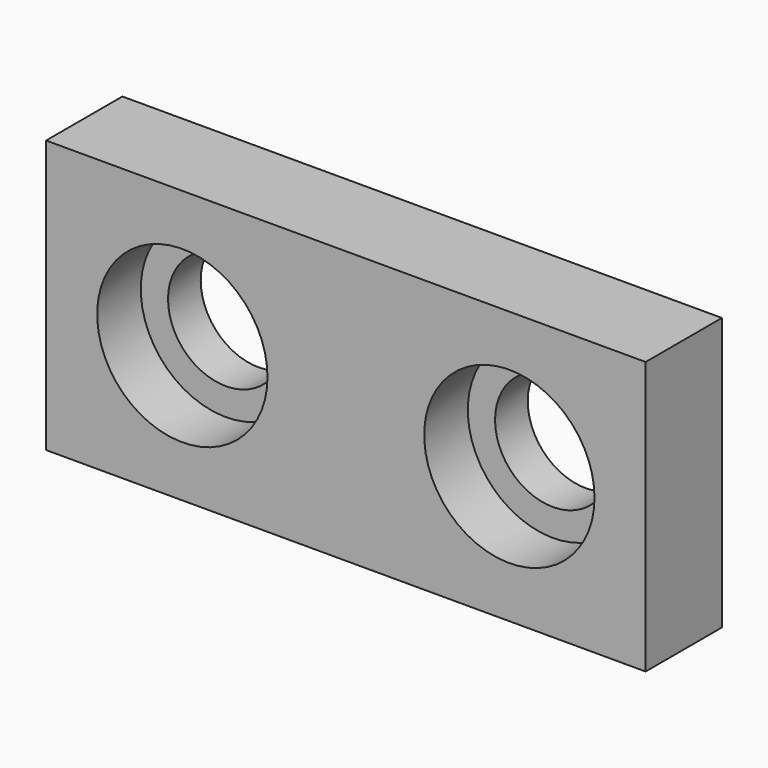
from build123d import *

# Parameters (mm, degrees)
F0_W           = 69.85
F0_H           = 31.75
F1_DEPTH       = 5.55625
F3_D           = 13.49375
F3_CBORE_D     = 19.84375
F3_CBORE_DEPTH = 6.35


with BuildPart() as f1:
    # F0 (on Front) → F1 (new body, symmetric)
    with BuildSketch(Plane.XZ):
        Rectangle(F0_W, F0_H)
    extrude(amount=F1_DEPTH, both=True)

    # F3 (through all)
    with Locations(Plane.XZ.offset(5.55625)):
        with Locations((-19.05, 0), (19.05, 0)):
            CounterBoreHole(F3_D / 2, F3_CBORE_D / 2, F3_CBORE_DEPTH)


solid = f1.part
